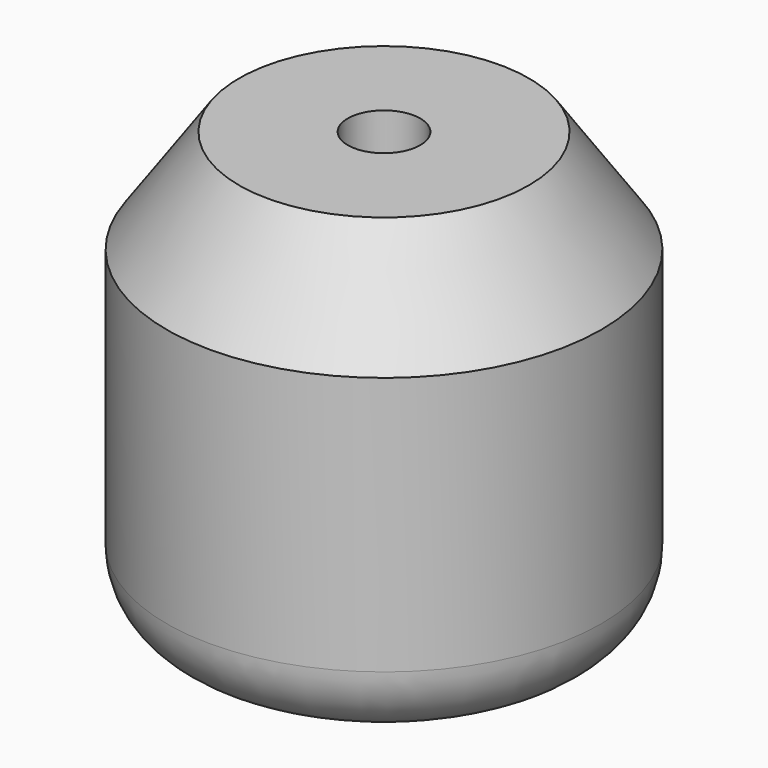
from build123d import *

# Parameters (mm, degrees)
F0_R     = 38.1
F1_DEPTH = 76.2
F2_R     = 12.7
F3_R     = 6.35
F4_DEPTH = 50.8
F5_SIZE2 = 18.1374796856
F5_SIZE  = 12.7


with BuildPart() as f1:
    # F0 (on Top) → F1 (new body)
    with BuildSketch(Plane.XY):
        Circle(F0_R)
    extrude(amount=F1_DEPTH)

    # F2
    f2_edges = [f1.edges().sort_by_distance(p)[0] for p in [
        (-38.1, 0, 0),
    ]]
    fillet(f2_edges, radius=F2_R)

    # F3 (on face) → F4 (cut)
    with BuildSketch(Plane.XY.offset(76.2)):
        Circle(F3_R)
    extrude(amount=-F4_DEPTH, mode=Mode.SUBTRACT)

    # F5
    f5_edges = [f1.edges().sort_by_distance(p)[0] for p in [
        (-38.1, 0, 76.2),
    ]]
    f5_side = f1.faces().sort_by_distance((-37.022369, 0, 76.2))[0]
    chamfer(f5_edges, length=F5_SIZE, length2=F5_SIZE2, reference=f5_side)


solid = f1.part
